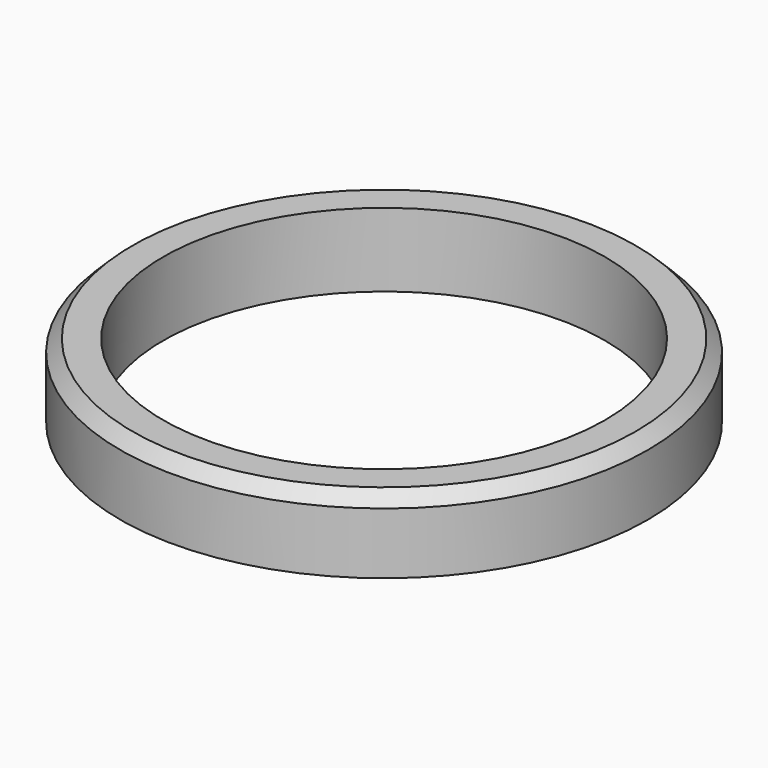
from build123d import *

# Parameters (mm, degrees)
SKETCH_R     = 10.75
SKETCH_R_2   = 9
PAD_DEPTH    = 3
CHAMFER_SIZE = 0.5


with BuildPart() as part:
    # Sketch → Pad (new body)
    with BuildSketch(Plane.XY):
        Circle(SKETCH_R)
        Circle(SKETCH_R_2, mode=Mode.SUBTRACT)
    extrude(amount=PAD_DEPTH)

    # Chamfer
    chamfer_edges = [part.edges().sort_by_distance(p)[0] for p in [
        (-10.75, 0, 3),
    ]]
    chamfer(chamfer_edges, length=CHAMFER_SIZE)


solid = part.part
